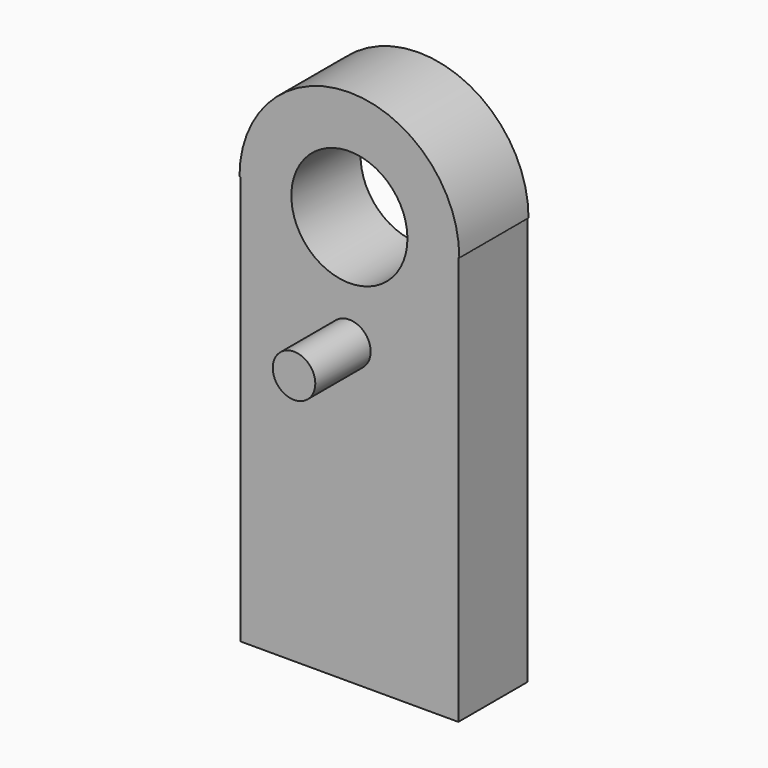
from build123d import *

# Parameters (mm, degrees)
F0_R     = 21.304985
F1_DEPTH = 31.75
F2_R     = 7.806176
F3_DEPTH = 25.4


with BuildPart() as f1:
    # F0 (on Front) → F1 (new body)
    with BuildSketch(Plane.XZ):
        with BuildLine():
            Line((-39.98179, -75.036481), (39.98179, -75.036481))
            Line((39.98179, -75.036481), (39.98179, 75.036481))
            Line((39.98179, 75.036481), (40.341462, 75.036481))
            ThreePointArc((40.341462, 75.036481), (0, 115.377943), (-40.341462, 75.036481))
            Line((-40.341462, 75.036481), (-39.98179, 75.036481))
            Line((-39.98179, 75.036481), (-39.98179, -75.036481))
        make_face()
        with Locations((0, 75.036481)):
            Circle(F0_R, mode=Mode.SUBTRACT)
    extrude(amount=F1_DEPTH)

    # F2 (on face) → F3 (join)
    with BuildSketch(Plane.XZ.offset(31.75)):
        with Locations((0, 34.131836)):
            Circle(F2_R)
    extrude(amount=F3_DEPTH)


solid = f1.part
